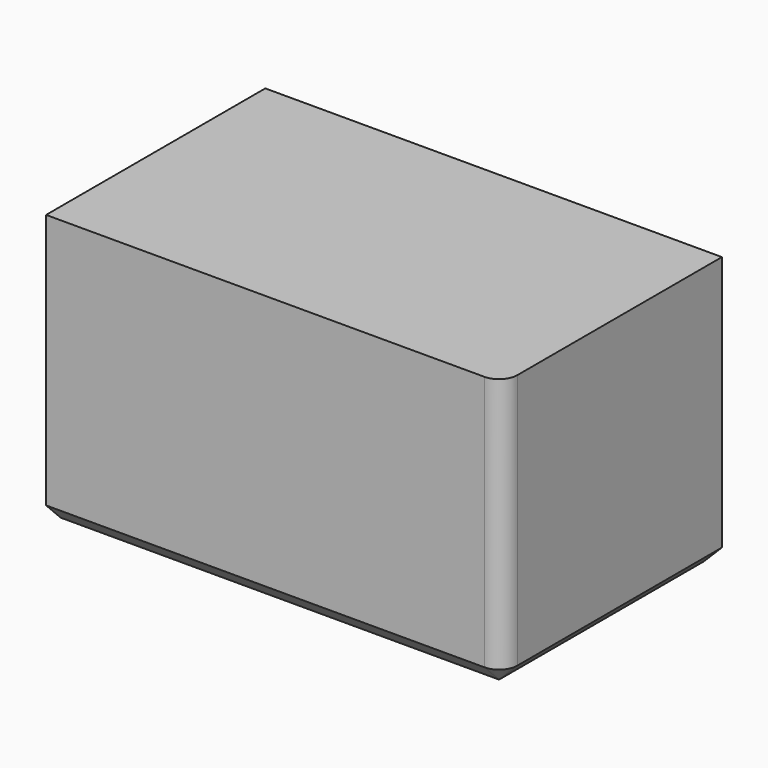
from build123d import *

# Parameters (mm, degrees)
F0_W     = 127
F0_H     = 76.2
F1_DEPTH = 76.2
F2_W     = 25.4
F2_H     = 12.7
F3_DEPTH = 12.7
F4_R     = 5.08
F5_SIZE  = 5.08


with BuildPart() as f1:
    # F0 (on Top) → F1 (new body)
    with BuildSketch(Plane.XY):
        with Locations((-19.711085, -3.173979)):
            Rectangle(F0_W, F0_H)
    extrude(amount=F1_DEPTH)

    # F2 (on face) → F3 (join)
    with BuildSketch(Plane.XY.offset(76.2)):
        with Locations((-19.711085, -6.35)):
            Rectangle(F2_W, F2_H)
    extrude(amount=-F3_DEPTH)

    # F4
    f4_edges = [f1.edges().sort_by_distance(p)[0] for p in [
        (43.788915, -41.273979, 38.1),
    ]]
    fillet(f4_edges, radius=F4_R)

    # F5
    f5_edges = [f1.edges().sort_by_distance(p)[0] for p in [
        (-22.251085, -41.273979, 0),
    ]]
    chamfer(f5_edges, length=F5_SIZE)


solid = f1.part
